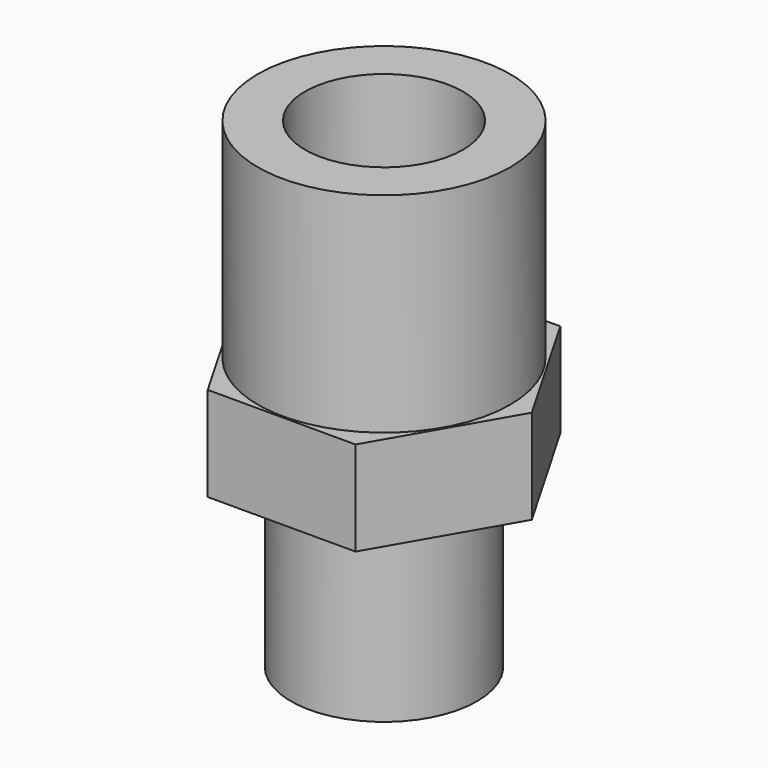
from build123d import *

# Parameters (mm, degrees)
F0_R     = 8.56615
F0_R_2   = 4.826
F1_DEPTH = 32.639
F2_R     = 16.123206
F2_R_2   = 6.31825
F3_DEPTH = 12.0523
F4_R     = 4.826
F5_DEPTH = 6.4008
F6_R     = 5.3594
F7_DEPTH = 8.001


with BuildPart() as f1:
    # F0 (on Top) → F1 (new body)
    with BuildSketch(Plane.XY):
        Circle(F0_R)
        Circle(F0_R_2, mode=Mode.SUBTRACT)
    extrude(amount=F1_DEPTH)

    # F2 (on face) → F3 (cut)
    with BuildSketch(Plane(origin=(0, 0, 0), x_dir=(1, 0, 0), z_dir=(0, 0, -1))):
        Circle(F2_R)
        Circle(F2_R_2, mode=Mode.SUBTRACT)
    extrude(amount=-F3_DEPTH, mode=Mode.SUBTRACT)

    # F4 (on face) → F5 (join)
    with BuildSketch(Plane(origin=(0, 0, 12.0523), x_dir=(1, 0, 0), z_dir=(0, 0, -1))):
        Polygon((5.015326, 8.6868), (-5.015326, 8.6868), (-10.030653, 0), (-5.015326, -8.6868), (5.015326, -8.6868), (10.030653, 0), align=None)
        Circle(F4_R, mode=Mode.SUBTRACT)
    extrude(amount=-F5_DEPTH)

    # F6 (on face) → F7 (cut)
    with BuildSketch(Plane.XY.offset(32.639)):
        Circle(F6_R)
    extrude(amount=-F7_DEPTH, mode=Mode.SUBTRACT)


solid = f1.part
